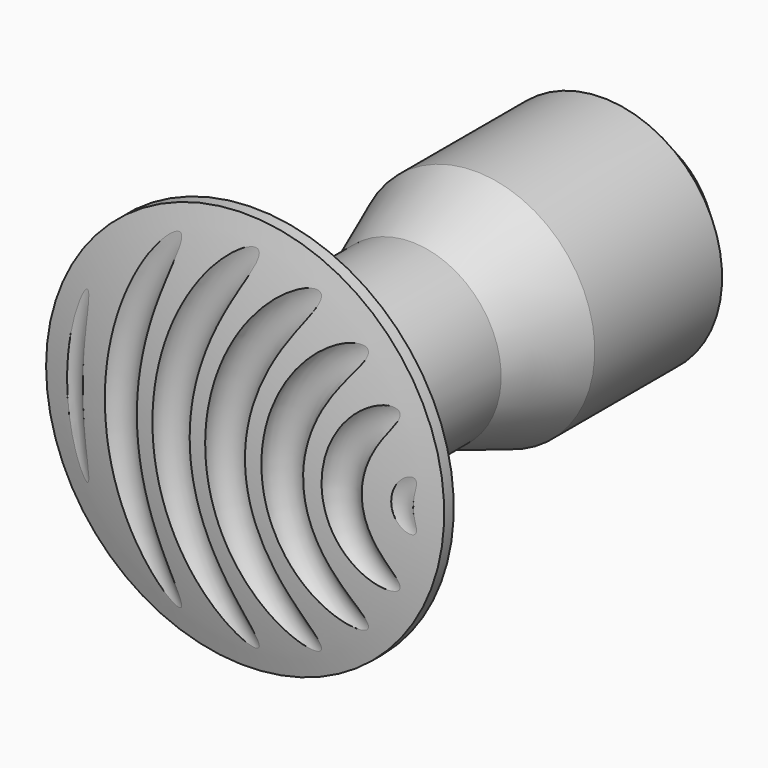
from build123d import *

# Parameters (mm, degrees)
POCKET010_DEPTH = 4
SKETCH033_R     = 0.25
POCKET011_DEPTH = 4
CHAMFER_SIZE    = 1


with BuildPart() as part:
    # Sketch026 (on DatumPlane) → Revolution (revolve)
    with BuildSketch(Plane(origin=(-3.3, -20, -19.15), x_dir=(1, 0, 0), z_dir=(0, 0, -1))):
        with BuildLine():
            Line((-3.75, -9.5), (-6.75, -9.5))
            Line((-6.75, -9.5), (-6.75, -4.5))
            Line((-6, -2.5), (-6.75, -4.5))
            Line((-6, -2.5), (-6, 0.5))
            Line((-6, 0.5), (-8.75, 2.425571))
            Line((-8.75, 2.425571), (-8.75, 2.725571))
            ThreePointArc((-3.75, 3.360654), (-6.270086, 3.201248), (-8.75, 2.725571))
            Line((-3.75, 3.360654), (-3.75, -9.5))
        make_face()
    revolve(axis=Axis((-7.05, -23.360654, -19.15), (0, 1, 0)))

    # Sketch041 (on DatumPlane) → Groove (revolve, cut)
    with BuildSketch(Plane(origin=(-3.3, -20, -19.15), x_dir=(1, 0, 0), z_dir=(0, 0, -1))):
        with BuildLine():
            ThreePointArc((-8.45, 3.360666), (-7.95, 2.860666), (-7.45, 3.360666))
            ThreePointArc((-7.05, 3.360666), (-7.25, 3.560666), (-7.45, 3.360666))
            ThreePointArc((-7.05, 3.360666), (-6.55, 2.860666), (-6.05, 3.360666))
            ThreePointArc((-5.65, 3.360666), (-5.85, 3.560666), (-6.05, 3.360666))
            ThreePointArc((-5.65, 3.360666), (-5.15, 2.860666), (-4.65, 3.360666))
            ThreePointArc((-4.25, 3.360666), (-4.45, 3.560666), (-4.65, 3.360666))
            ThreePointArc((-4.25, 3.360666), (-3.75, 2.860666), (-3.25, 3.360666))
            ThreePointArc((-2.85, 3.360666), (-3.05, 3.560666), (-3.25, 3.360666))
            ThreePointArc((-2.85, 3.360666), (-2.35, 2.860666), (-1.85, 3.360666))
            ThreePointArc((-1.45, 3.360666), (-1.65, 3.560666), (-1.85, 3.360666))
            ThreePointArc((-1.45, 3.360666), (-0.95, 2.860666), (-0.45, 3.360666))
            ThreePointArc((-0.05, 3.360666), (-0.25, 3.560666), (-0.45, 3.360666))
            ThreePointArc((-0.05, 3.360666), (0.45, 2.860666), (0.95, 3.360666))
            ThreePointArc((0.95, 3.360666), (-3.75, 8.060666), (-8.45, 3.360666))
        make_face()
    revolve(axis=Axis((-2.05, -36.221332, -19.15), (0, 1, 0)), mode=Mode.SUBTRACT)

    # Sketch032 → Pocket010 (cut)
    with BuildSketch(Plane(origin=(-3.3, -10.5, -19.15), x_dir=(1, 0, 0), z_dir=(0, 1, 0))):
        Polygon((-3.75, 1.414214), (-5.164214, 0), (-3.75, -1.414214), (-2.335786, 0), align=None)
    extrude(amount=-POCKET010_DEPTH, mode=Mode.SUBTRACT)

    # Sketch033 (on Face1 of Pocket010) → Pocket011 (cut)
    with BuildSketch(Plane(origin=(-3.3, -10.5, -19.15), x_dir=(1, 0, 0), z_dir=(0, 1, 0))):
        with Locations((-3.75, -1.414214)):
            Circle(SKETCH033_R)
        with Locations((-2.335786, 0)):
            Circle(SKETCH033_R)
        with Locations((-5.164214, 0)):
            Circle(SKETCH033_R)
        with Locations((-3.75, 1.414214)):
            Circle(SKETCH033_R)
    extrude(amount=-POCKET011_DEPTH, mode=Mode.SUBTRACT)

    # Chamfer
    chamfer_edges = [part.edges().sort_by_distance(p)[0] for p in [
        (-4.05, -10.5, -19.15),
    ]]
    chamfer(chamfer_edges, length=CHAMFER_SIZE)


solid = part.part
